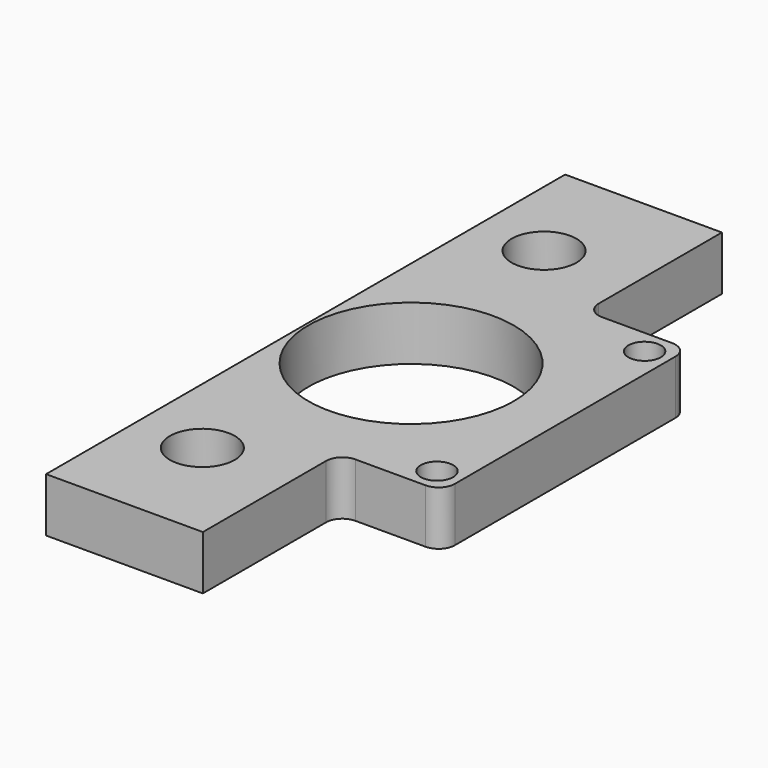
from build123d import *

# Parameters (mm, degrees)
PAD_DEPTH       = 10
SKETCH001_R     = 19
POCKET_DEPTH    = 10.001
SKETCH002_R     = 6
POCKET001_DEPTH = 10.001
FILLET_R        = 3
SKETCH003_R     = 3
POCKET002_DEPTH = 15
SKETCH004_R     = 3
POCKET003_DEPTH = 10.001


with BuildPart() as part:
    # Sketch → Pad (new body)
    with BuildSketch(Plane.XY):
        Polygon((0, 0), (0, 120), (29, 120), (29, 88.5), (48, 88.5), (48, 31.5), (29, 31.5), (29, 0), align=None)
    extrude(amount=-PAD_DEPTH)

    # Sketch001 → Pocket (cut, through all)
    with BuildSketch(Plane.XY):
        with Locations((19.5, 60)):
            Circle(SKETCH001_R)
    extrude(amount=-POCKET_DEPTH, mode=Mode.SUBTRACT)

    # Sketch002 → Pocket001 (cut, through all)
    with BuildSketch(Plane.XY):
        with Locations((12.5, 99.5)):
            Circle(SKETCH002_R)
        with Locations((12.5, 20.5)):
            Circle(SKETCH002_R)
    extrude(amount=-POCKET001_DEPTH, mode=Mode.SUBTRACT)

    # Fillet
    fillet_edges = [part.edges().sort_by_distance(p)[0] for p in [
        (29, 31.5, -5),
        (29, 88.5, -5),
        (48, 31.5, -5),
        (48, 88.5, -5),
    ]]
    fillet(fillet_edges, radius=FILLET_R)

    # Sketch003 → Pocket002 (cut)
    with BuildSketch(Plane(origin=(0, 0, 0), x_dir=(0, -1, 0), z_dir=(-1, 0, 0))):
        with Locations((-111, -5.5)):
            Circle(SKETCH003_R)
        with Locations((-87, -5.5)):
            Circle(SKETCH003_R)
        with Locations((-33, -5.5)):
            Circle(SKETCH003_R)
        with Locations((-9, -5.5)):
            Circle(SKETCH003_R)
    extrude(amount=-POCKET002_DEPTH, mode=Mode.SUBTRACT)

    # Sketch004 → Pocket003 (cut, through all)
    with BuildSketch(Plane.XY):
        with Locations((43.5, 84)):
            Circle(SKETCH004_R)
        with Locations((43.5, 36)):
            Circle(SKETCH004_R)
    extrude(amount=-POCKET003_DEPTH, mode=Mode.SUBTRACT)


solid = part.part
